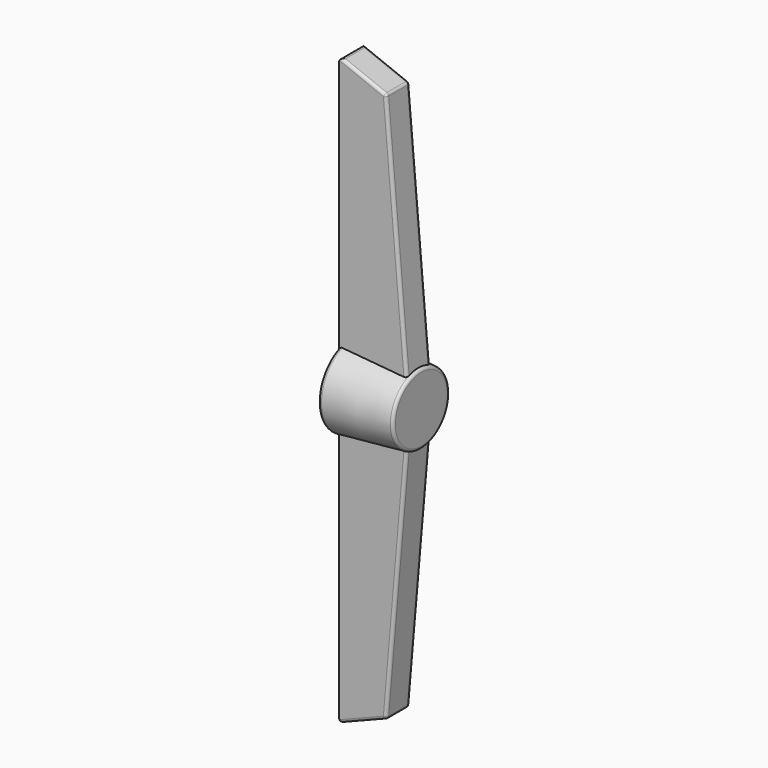
from build123d import *

# Parameters (mm, degrees)
SKETCH028_R             = 6
SKETCH027_R             = 7
PAD010_DEPTH            = 2.5
FILLET002_R             = 0.5
FILLET003_R             = 0.5
FILLET004_R             = 0.5
POCKET009_DEPTH         = 8
BODY005_ROLL_ANGLE      = 90
BODY005_PLACEMENT_ANGLE = 90


with BuildPart() as part:
    # Sketch028 → AdditiveLoft section 0
    with BuildSketch(Plane.XY.offset(12)):
        Circle(SKETCH028_R)
    # Sketch027 → AdditiveLoft section 1
    with BuildSketch(Plane.XY):
        Circle(SKETCH027_R)
    loft()

    # Sketch029 → Pad010 (new body, symmetric)
    with BuildSketch(Plane.YZ):
        Polygon((0, 12), (46.829478, 8), (50, 0), (0, 0), (-50, 0), (-46.829478, 8), align=None)
    extrude(amount=PAD010_DEPTH, both=True)

    # Fillet002
    fillet002_edges = [part.edges().sort_by_distance(p)[0] for p in [
        (-6, 0, 12),
    ]]
    fillet(fillet002_edges, radius=FILLET002_R)

    # Fillet003
    fillet003_edges = [part.edges().sort_by_distance(p)[0] for p in [
        (-7, 0, 0),
        (5.766281, 3.968627, 0),
        (5.766281, -3.968627, 0),
    ]]
    fillet(fillet003_edges, radius=FILLET003_R)

    # Fillet004
    fillet004_edges = [part.edges().sort_by_distance(p)[0] for p in [
        (2.5, 26.163425, 9.765217),
        (-2.5, 26.163425, 9.765217),
        (-2.5, -26.163425, 9.765217),
        (2.5, -26.163425, 9.765217),
        (0, -46.829478, 8),
        (0, -50, 0),
        (-2.5, -48.414739, 4),
        (2.5, -48.414739, 4),
        (2.5, 48.414739, 4),
        (0, 46.829478, 8),
        (-2.5, 48.414739, 4),
        (0, 50, 0),
    ]]
    fillet(fillet004_edges, radius=FILLET004_R)

    # Sketch030 → Pocket009 (cut)
    with BuildSketch(Plane.XY):
        with BuildLine():
            Line((2.8, 2.856571), (2.8, 0.85))
            Line((2.8, 0.85), (1.5, 0.85))
            Line((1.5, 0.85), (1.5, -0.85))
            Line((1.5, -0.85), (2.8, -0.85))
            Line((2.8, -0.85), (2.8, -2.856571))
            ThreePointArc((2.8, 2.856571), (-4, 0), (2.8, -2.856571))
        make_face()
    extrude(amount=POCKET009_DEPTH, mode=Mode.SUBTRACT)


with BuildPart() as part_1:
    # Body005 roll: moved
    add(part.part.rotate(Axis((0, 0, 0), (1, 0, 0)), BODY005_ROLL_ANGLE))


with BuildPart() as part_2:
    # Body005 placement: moved
    add(part_1.part.moved(Location((53.5, 0, 0))).rotate(Axis((53.5, 0, 0), (0, 0, 1)), BODY005_PLACEMENT_ANGLE))


solid = part_2.part
